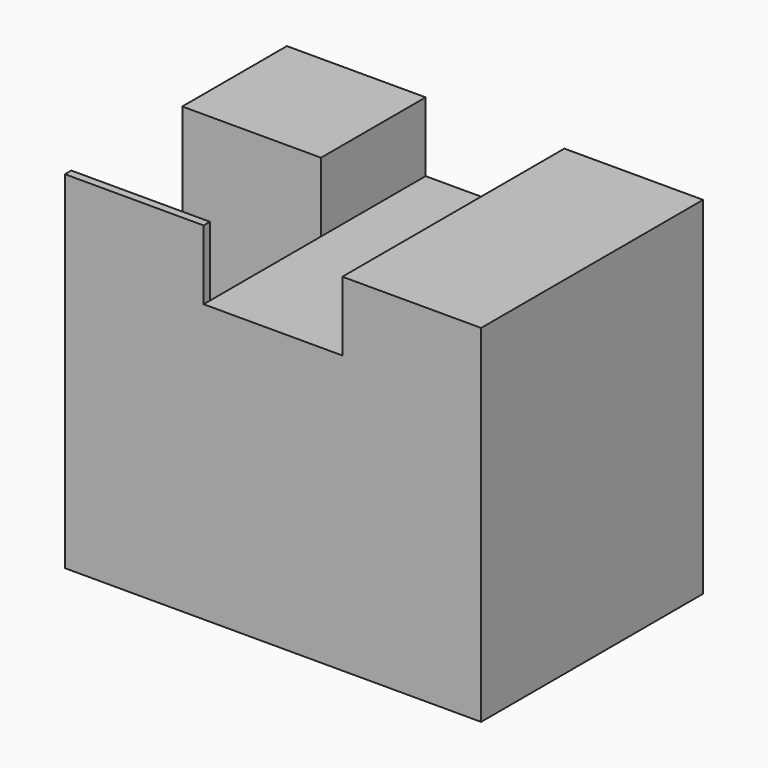
from build123d import *

# Parameters (mm, degrees)
F0_W     = 38.1
F0_H     = 12.7
F1_DEPTH = 25.4
F2_W     = 12.7
F2_H     = 19.05
F3_DEPTH = 25.4


with BuildPart() as f1:
    # F0 (on Front) → F1 (new body)
    with BuildSketch(Plane.XZ):
        Polygon((-12.7, 12.769525), (-12.7, -6.280475), (25.4, -6.280475), (25.4, 12.769525), (12.7, 12.769525), (12.7, 6.419525), (0, 6.419525), (0, 12.769525), align=None)
        with Locations((6.35, -12.630475)):
            Rectangle(F0_W, F0_H)
    extrude(amount=F1_DEPTH)

    # F2 (on Right) → F3 (cut)
    with BuildSketch(Plane.YZ):
        with Locations((-18.322299, 3.782189)):
            Rectangle(F2_W, F2_H)
    extrude(amount=-F3_DEPTH, mode=Mode.SUBTRACT)


solid = f1.part
